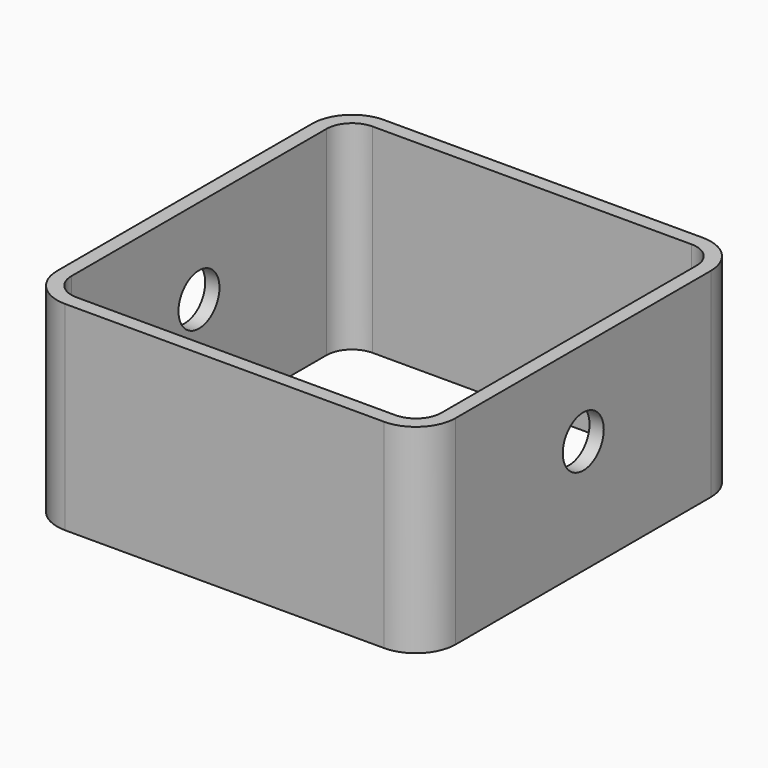
from build123d import *

# Parameters (mm, degrees)
F1_DEPTH = 70
F2_R     = 9
F3_DEPTH = 140.001


with BuildPart() as f1:
    # F0 (on Top) → F1 (new body)
    with BuildSketch(Plane.XY):
        with BuildLine():
            Line((-56, -70), (56, -70))
            ThreePointArc((56, -70), (65.899495, -65.899495), (70, -56))
            Line((70, -56), (70, 56))
            ThreePointArc((70, 56), (65.899495, 65.899495), (56, 70))
            Line((56, 70), (-56, 70))
            ThreePointArc((-56, 70), (-65.899495, 65.899495), (-70, 56))
            Line((-70, 56), (-70, -56))
            ThreePointArc((-70, -56), (-65.899495, -65.899495), (-56, -70))
        make_face()
        with BuildLine():
            ThreePointArc((-56, -65), (-62.363961, -62.363961), (-65, -56))
            Line((-65, -56), (-65, 56))
            ThreePointArc((-65, 56), (-62.363961, 62.363961), (-56, 65))
            Line((-56, 65), (56, 65))
            ThreePointArc((56, 65), (62.363961, 62.363961), (65, 56))
            Line((65, 56), (65, -56))
            ThreePointArc((65, -56), (62.363961, -62.363961), (56, -65))
            Line((56, -65), (-56, -65))
        make_face(mode=Mode.SUBTRACT)
    extrude(amount=F1_DEPTH)

    # F2 (on face) → F3 (cut, through all)
    with BuildSketch(Plane.YZ.offset(70)):
        with Locations((0, 40)):
            Circle(F2_R)
    extrude(amount=-F3_DEPTH, mode=Mode.SUBTRACT)


solid = f1.part
